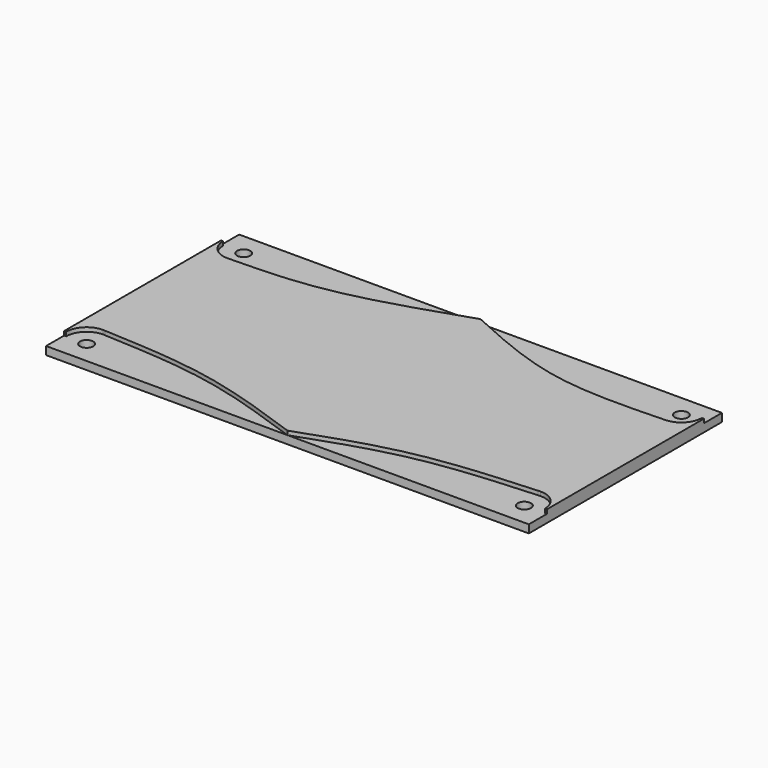
from build123d import *

# Parameters (mm, degrees)
F0_W     = 120
F0_H     = 60
F1_DEPTH = 3
F3_DEPTH = 1
F5_DEPTH = 1
F6_D     = 3.3
F7_D     = 3.3


with BuildPart() as f1:
    # F0 (on Top) → F1 (new body)
    with BuildSketch(Plane.XY):
        with Locations((63.9999989198, 30)):
            Rectangle(F0_W, F0_H)
    extrude(amount=F1_DEPTH)

    # F2 (on face) → F3 (cut)
    with BuildSketch(Plane.XY.offset(3)):
        with BuildLine():
            ThreePointArc((14.6999989198, 54.4), (13.2062435039, 58.0062445841), (9.5999989198, 59.5))
            Line((9.5999989198, 59.5), (9.5999989198, 54.4))
            Line((9.5999989198, 54.4), (14.6999989198, 54.4))
        make_face()
        with BuildLine():
            Line((9.5999989198, 49.3), (9.5999989198, 54.4))
            Line((9.5999989198, 54.4), (4.4999989198, 54.4))
            ThreePointArc((4.4999989198, 54.4), (5.9937543357, 50.7937554159), (9.5999989198, 49.3))
        make_face()
        with BuildLine():
            Line((14.6999989198, 54.4), (9.5999989198, 54.4))
            Line((9.5999989198, 54.4), (9.5999989198, 49.3))
            ThreePointArc((9.5999989198, 49.3), (13.2062435039, 50.7937554159), (14.6999989198, 54.4))
        make_face()
        with BuildLine():
            Line((9.5999989198, 5.6), (9.5999989198, 10.7))
            ThreePointArc((9.5999989198, 10.7), (5.9937543357, 9.2062445841), (4.4999989198, 5.6))
            Line((4.4999989198, 5.6), (9.5999989198, 5.6))
        make_face()
        with BuildLine():
            ThreePointArc((14.6999989198, 5.6), (13.2062435039, 9.2062445841), (9.5999989198, 10.7))
            Line((9.5999989198, 10.7), (9.5999989198, 5.6))
            Line((9.5999989198, 5.6), (14.6999989198, 5.6))
        make_face()
        with BuildLine():
            Line((9.5999989198, 5.6), (4.4999989198, 5.6))
            ThreePointArc((4.4999989198, 5.6), (5.9937543357, 1.9937554159), (9.5999989198, 0.5))
            Line((9.5999989198, 0.5), (9.5999989198, 5.6))
        make_face()
        with BuildLine():
            Line((14.6999989198, 5.6), (9.5999989198, 5.6))
            Line((9.5999989198, 5.6), (9.5999989198, 0.5))
            ThreePointArc((9.5999989198, 0.5), (13.2062435039, 1.9937554159), (14.6999989198, 5.6))
        make_face()
        with BuildLine():
            Line((118.3999989198, 5.6), (118.3999989198, 10.7))
            ThreePointArc((118.3999989198, 10.7), (114.7937543357, 9.2062445841), (113.2999989198, 5.6))
            Line((113.2999989198, 5.6), (118.3999989198, 5.6))
        make_face()
        with BuildLine():
            Line((118.3999989198, 5.6), (113.2999989198, 5.6))
            ThreePointArc((113.2999989198, 5.6), (114.7937543357, 1.9937554159), (118.3999989198, 0.5))
            Line((118.3999989198, 0.5), (118.3999989198, 5.6))
        make_face()
        with BuildLine():
            ThreePointArc((123.4999989198, 5.6), (122.0062435039, 9.2062445841), (118.3999989198, 10.7))
            Line((118.3999989198, 10.7), (118.3999989198, 5.6))
            Line((118.3999989198, 5.6), (123.4999989198, 5.6))
        make_face()
        with BuildLine():
            ThreePointArc((118.3999989198, 0.5), (122.0062435039, 1.9937554159), (123.4999989198, 5.6))
            Line((123.4999989198, 5.6), (118.3999989198, 5.6))
            Line((118.3999989198, 5.6), (118.3999989198, 0.5))
        make_face()
        with BuildLine():
            Line((118.3999989198, 54.4), (118.3999989198, 59.5))
            ThreePointArc((118.3999989198, 59.5), (114.7937543357, 58.0062445841), (113.2999989198, 54.4))
            Line((113.2999989198, 54.4), (118.3999989198, 54.4))
        make_face()
        with BuildLine():
            Line((118.3999989198, 54.4), (113.2999989198, 54.4))
            ThreePointArc((113.2999989198, 54.4), (114.7937543357, 50.7937554159), (118.3999989198, 49.3))
            Line((118.3999989198, 49.3), (118.3999989198, 54.4))
        make_face()
        with BuildLine():
            ThreePointArc((123.4999989198, 54.4), (122.0062435039, 58.0062445841), (118.3999989198, 59.5))
            Line((118.3999989198, 59.5), (118.3999989198, 54.4))
            Line((118.3999989198, 54.4), (123.4999989198, 54.4))
        make_face()
        with BuildLine():
            Line((123.4999989198, 54.4), (118.3999989198, 54.4))
            Line((118.3999989198, 54.4), (118.3999989198, 49.3))
            ThreePointArc((118.3999989198, 49.3), (122.0062435039, 50.7937554159), (123.4999989198, 54.4))
        make_face()
        with BuildLine():
            Line((9.5999989198, 54.4), (9.5999989198, 59.5))
            ThreePointArc((9.5999989198, 59.5), (5.9937543357, 58.0062445841), (4.4999989198, 54.4))
            Line((4.4999989198, 54.4), (9.5999989198, 54.4))
        make_face()
        with BuildLine():
            Line((9.5999989198, 59.5), (9.5999989198, 60))
            Line((9.5999989198, 60), (3.9999989198, 60))
            Line((3.9999989198, 60), (3.9999989198, 54.4))
            Line((3.9999989198, 54.4), (4.4999989198, 54.4))
            ThreePointArc((4.4999989198, 54.4), (5.9937543357, 58.0062445841), (9.5999989198, 59.5))
        make_face()
        with BuildLine():
            Line((123.9999989198, 60), (118.3999989198, 60))
            Line((118.3999989198, 60), (118.3999989198, 59.5))
            ThreePointArc((118.3999989198, 59.5), (122.0062435039, 58.0062445841), (123.4999989198, 54.4))
            Line((123.4999989198, 54.4), (123.9999989198, 54.4))
            Line((123.9999989198, 54.4), (123.9999989198, 60))
        make_face()
        with BuildLine():
            Line((123.9999989198, 0), (123.9999989198, 5.6))
            Line((123.9999989198, 5.6), (123.4999989198, 5.6))
            ThreePointArc((123.4999989198, 5.6), (122.0062435039, 1.9937554159), (118.3999989198, 0.5))
            Line((118.3999989198, 0.5), (118.3999989198, 0))
            Line((118.3999989198, 0), (123.9999989198, 0))
        make_face()
        with BuildLine():
            Line((4.4999989198, 5.6), (3.9999989198, 5.6))
            Line((3.9999989198, 5.6), (3.9999989198, 0))
            Line((3.9999989198, 0), (9.5999989198, 0))
            Line((9.5999989198, 0), (9.5999989198, 0.5))
            ThreePointArc((9.5999989198, 0.5), (5.9937543357, 1.9937554159), (4.4999989198, 5.6))
        make_face()
    extrude(amount=-F3_DEPTH, mode=Mode.SUBTRACT)

    # F4 (on face) → F5 (cut)
    with BuildSketch(Plane.XY.offset(3)):
        with BuildLine():
            add(Edge.make_bspline(
                [(63.9999989198, 60), (53.3078499409, 56.3984259531), (33.5495887668, 49.7075267127), (17.2264214287, 49.4590057291), (9.7372470228, 49.3018471033)],
                knots=[0, 0, 0, 0, 0.5410756029, 1, 1, 1, 1], degree=3))
            Line((63.9999989198, 60), (9.5999989198, 60))
            Line((9.5999989198, 60), (9.5999989198, 59.5))
            ThreePointArc((9.5999989198, 59.5), (14.6995371231, 54.4686302658), (9.7372470228, 49.3018471033))
        make_face()
        with BuildLine():
            Line((118.3999989198, 60), (63.9999989198, 60))
            add(Edge.make_bspline(
                [(63.9999989198, 60), (72.5641843861, 56.1127336818), (89.7555419494, 48.3096115422), (108.8285530179, 48.9690651334), (118.3999989198, 49.3)],
                knots=[0, 0, 0, 0, 0.4981680728, 1, 1, 1, 1], degree=3))
            ThreePointArc((118.3999989198, 49.3), (113.2999989198, 54.4), (118.3999989198, 59.5))
            Line((118.3999989198, 59.5), (118.3999989198, 60))
        make_face()
        with BuildLine():
            add(Edge.make_bspline(
                [(63.9999989198, 0), (72.1609270774, 2.9084131067), (88.7930843444, 8.835825192), (107.9878966542, 10.0624659865), (117.7781419332, 10.6619456623)],
                knots=[0, 0, 0, 0, 0.4854368856, 0.9893314178, 0.9893314178, 0.9893314178, 0.9893314178], degree=3))
            Line((63.9999989198, 0), (118.3999989198, 0))
            Line((118.3999989198, 0), (118.3999989198, 0.5))
            ThreePointArc((118.3999989198, 0.5), (113.3095213942, 5.28848987), (117.7781419332, 10.6619456623))
        make_face()
        with BuildLine():
            add(Edge.make_bspline(
                [(63.9999989198, 0), (55.110608048, 3.1316324942), (37.4637794456, 9.3648834823), (19.1775133134, 10.2247717324), (10.1042544322, 10.675009988)],
                knots=[0, 0, 0, 0, 0.5036943289, 1, 1, 1, 1], degree=3))
            ThreePointArc((10.1042544322, 10.675009988), (14.6937475855, 5.3475628185), (9.5999989198, 0.5))
            Line((9.5999989198, 0.5), (9.5999989198, 0))
            Line((9.5999989198, 0), (63.9999989198, 0))
        make_face()
    extrude(amount=-F5_DEPTH, mode=Mode.SUBTRACT)

    # F6 (through all)
    with Locations(Plane.XY.offset(3)):
        with Locations((9.5999989198, 54.4)):
            Hole(F6_D / 2)

    # F7 (through all)
    with Locations(Plane.XY.offset(3)):
        with Locations((118.3999989198, 54.4), (118.3999989198, 5.6), (9.5999989198, 5.6)):
            Hole(F7_D / 2)


solid = f1.part
